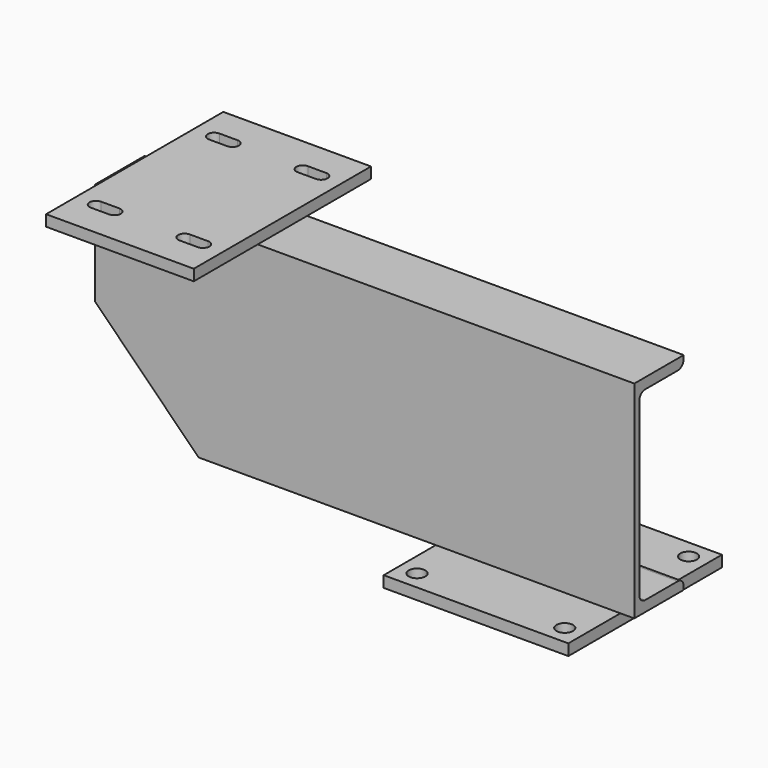
from build123d import *

# Parameters (mm, degrees)
F1_DEPTH  = 231.775
F3_W      = 165.1
F3_H      = 9.652
F4_DEPTH  = 158.75
F6_D      = 14.2875
F9_DEPTH  = 63.5
F11_DEPTH = 196.978
F12_SIZE  = 88.9


with BuildPart() as f1:
    # F0 (on Right) → F1 (new body, symmetric)
    with BuildSketch(Plane.YZ):
        with BuildLine():
            Line((-26.543, 177.8), (-26.543, 0))
            Line((-26.543, 0), (0, 0))
            Line((0, 0), (0, 9.144))
            Line((0, 9.144), (-14.859, 9.144))
            ThreePointArc((-14.859, 9.144), (-19.3491280605, 11.0038719395), (-21.209, 15.494))
            Line((-21.209, 15.494), (-21.209, 162.306))
            ThreePointArc((-21.209, 162.306), (-19.3491280605, 166.7961280605), (-14.859, 168.656))
            Line((-14.859, 168.656), (0, 168.656))
            Line((0, 168.656), (0, 177.8))
            Line((0, 177.8), (-26.543, 177.8))
        make_face()
        with BuildLine():
            Line((0, 9.144), (0, 0))
            Line((0, 0), (26.543, 0))
            Line((26.543, 0), (26.543, 2.794))
            ThreePointArc((26.543, 2.794), (24.6831280605, 7.2841280605), (20.193, 9.144))
            Line((20.193, 9.144), (0, 9.144))
        make_face()
        with BuildLine():
            Line((26.543, 177.8), (0, 177.8))
            Line((0, 177.8), (0, 168.656))
            Line((0, 168.656), (20.193, 168.656))
            ThreePointArc((20.193, 168.656), (24.6831280605, 170.5158719395), (26.543, 175.006))
            Line((26.543, 175.006), (26.543, 177.8))
        make_face()
    extrude(amount=F1_DEPTH, both=True)

    # F3 (on offset) → F4 (join)
    with BuildSketch(Plane.YZ.offset(219.837)):
        with Locations((0, -4.826)):
            Rectangle(F3_W, F3_H)
    extrude(amount=-F4_DEPTH)

    # F6 (through all)
    with Locations(Plane(origin=(0, 0, -9.652), x_dir=(1, 0, 0), z_dir=(0, 0, -1))):
        with Locations((203.962, -66.548), (76.962, -66.548), (203.962, 66.548), (76.962, 66.548)):
            Hole(F6_D / 2)

    # F8 (on offset) → F9 (join, symmetric)
    with BuildSketch(Plane(origin=(-155.575, 0, 0), x_dir=(0, -1, 0), z_dir=(-1, 0, 0))):
        Polygon((-95.25, 177.8), (26.543, 177.8), (95.25, 177.8), (95.25, 187.325), (-95.25, 187.325), align=None)
    extrude(amount=F9_DEPTH, both=True)

    # F10 (on face) → F11 (cut, through all)
    with BuildSketch(Plane.XY.offset(187.325)):
        with BuildLine():
            ThreePointArc((-185.801, -69.05625), (-180.24475, -63.5), (-185.801, -57.94375))
            Line((-185.801, -57.94375), (-201.549, -57.94375))
            ThreePointArc((-201.549, -57.94375), (-207.10525, -63.5), (-201.549, -69.05625))
            Line((-201.549, -69.05625), (-185.801, -69.05625))
        make_face()
        with BuildLine():
            Line((-109.601, -57.94375), (-125.349, -57.94375))
            ThreePointArc((-125.349, -57.94375), (-130.90525, -63.5), (-125.349, -69.05625))
            Line((-125.349, -69.05625), (-109.601, -69.05625))
            ThreePointArc((-109.601, -69.05625), (-104.04475, -63.5), (-109.601, -57.94375))
        make_face()
        with BuildLine():
            Line((-185.801, 69.05625), (-201.549, 69.05625))
            ThreePointArc((-201.549, 69.05625), (-207.10525, 63.5), (-201.549, 57.94375))
            Line((-201.549, 57.94375), (-185.801, 57.94375))
            ThreePointArc((-185.801, 57.94375), (-180.24475, 63.5), (-185.801, 69.05625))
        make_face()
        with BuildLine():
            ThreePointArc((-125.349, 69.05625), (-130.90525, 63.5), (-125.349, 57.94375))
            Line((-125.349, 57.94375), (-109.601, 57.94375))
            ThreePointArc((-109.601, 57.94375), (-104.04475, 63.5), (-109.601, 69.05625))
            Line((-109.601, 69.05625), (-125.349, 69.05625))
        make_face()
    extrude(amount=-F11_DEPTH, mode=Mode.SUBTRACT)

    # F12
    f12_edges = [f1.edges().sort_by_distance(p)[0] for p in [
        (-231.775, 0, 0),
    ]]
    chamfer(f12_edges, length=F12_SIZE)


solid = f1.part
